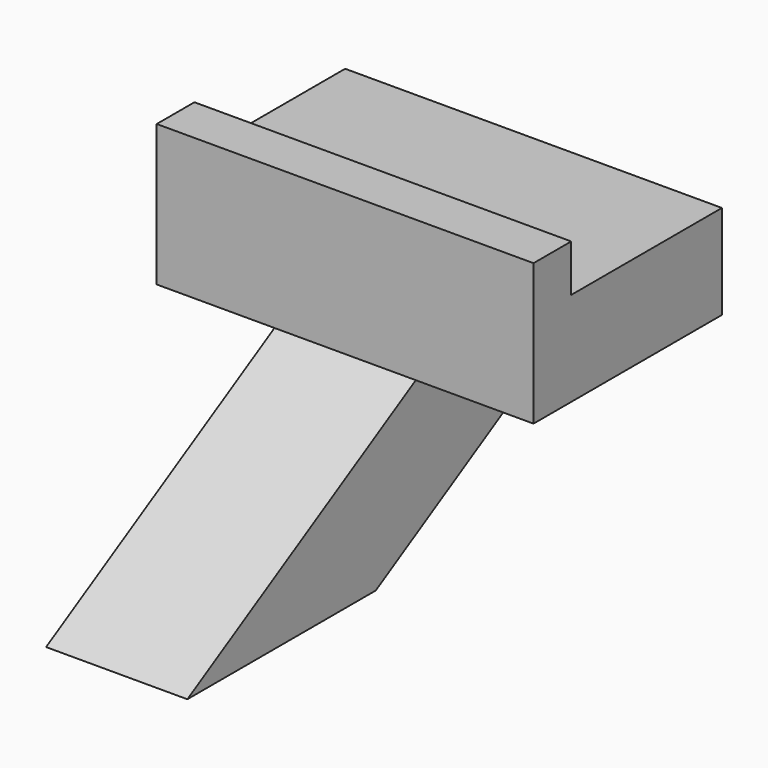
from build123d import *

# Parameters (mm, degrees)
PAD001_DEPTH = 15
SKETCH002_W  = 50
SKETCH002_H  = 80
PAD002_DEPTH = 20
SKETCH003_W  = 10
SKETCH003_H  = 80
PAD003_DEPTH = 10


with BuildPart() as part:
    # Sketch001 → Pad001 (new body, symmetric)
    with BuildSketch(Plane(origin=(0, 0, 0), x_dir=(0, -1, 0), z_dir=(-1, 0, 0))):
        Polygon((0, 20), (50, 20), (-10.621778, 55), (-60.621778, 55), align=None)
    extrude(amount=PAD001_DEPTH, both=True)

    # Sketch002 → Pad002 (new body)
    with BuildSketch(Plane(origin=(0, 0, 55), x_dir=(0, 1, 0), z_dir=(0, 0, 1))):
        with Locations((35.621778, 0)):
            Rectangle(SKETCH002_W, SKETCH002_H)
    extrude(amount=PAD002_DEPTH)

    # Sketch003 → Pad003 (new body)
    with BuildSketch(Plane(origin=(0, 0, 75), x_dir=(0, 1, 0), z_dir=(0, 0, 1))):
        with Locations((15.621778, 0)):
            Rectangle(SKETCH003_W, SKETCH003_H)
    extrude(amount=PAD003_DEPTH)


solid = part.part
